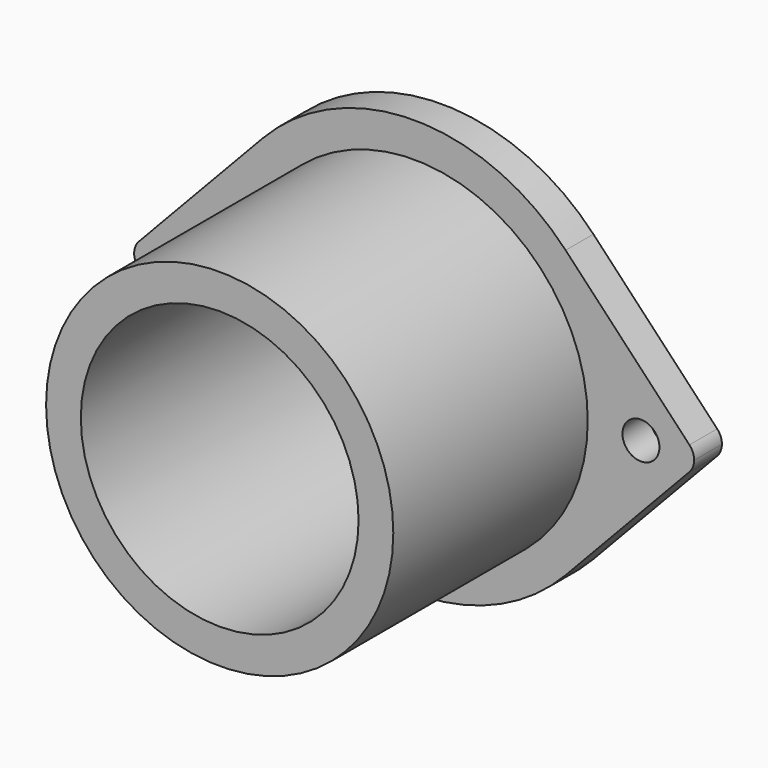
from build123d import *

# Parameters (mm, degrees)
F1_DEPTH = 6.35
F2_R     = 31.75
F2_R_2   = 25.4
F3_DEPTH = 50.8
F5_DEPTH = 127
F7_R     = 3.3782
F8_DEPTH = 127


with BuildPart() as f1:
    # F0 (on Front) → F1 (new body)
    with BuildSketch(Plane.XZ):
        with BuildLine():
            ThreePointArc((27.703595981, -26.1557024322), (35.4056281322, -14.0730770112), (38.1, 0))
            ThreePointArc((38.1, 0), (35.4056281322, 14.0730770112), (27.703595981, 26.1557024322))
            ThreePointArc((27.703595981, 26.1557024322), (0, 38.1), (-27.703595981, 26.1557024322))
            ThreePointArc((-27.703595981, 26.1557024322), (-38.1, 0), (-27.703595981, -26.1557024322))
            ThreePointArc((-27.703595981, -26.1557024322), (0, -38.1), (27.703595981, -26.1557024322))
        make_face()
        with BuildLine():
            ThreePointArc((27.703595981, 26.1557024322), (35.4056281322, 14.0730770112), (38.1, 0))
            ThreePointArc((38.1, 0), (35.4056281322, -14.0730770112), (27.703595981, -26.1557024322))
            Line((27.703595981, -26.1557024322), (50.3400329984, -2.1796418694))
            ThreePointArc((50.3400329984, -2.1796418694), (46.8586435824, -2.950469011), (44.8564, 0))
            ThreePointArc((44.8564, 0), (46.8586435824, 2.950469011), (50.3400329984, 2.1796418694))
            Line((50.3400329984, 2.1796418694), (27.703595981, 26.1557024322))
        make_face()
        with BuildLine():
            ThreePointArc((-27.703595981, -26.1557024322), (-38.1, 0), (-27.703595981, 26.1557024322))
            Line((-27.703595981, 26.1557024322), (-50.3400329984, 2.1796418694))
            ThreePointArc((-50.3400329984, 2.1796418694), (-46.8586435824, 2.950469011), (-44.8564, 0))
            ThreePointArc((-44.8564, 0), (-46.8586435824, -2.950469011), (-50.3400329984, -2.1796418694))
            Line((-50.3400329984, -2.1796418694), (-27.703595981, -26.1557024322))
        make_face()
        with BuildLine():
            ThreePointArc((51.2064, 0), (50.981869011, 1.1727564176), (50.3400329984, 2.1796418694))
            ThreePointArc((50.3400329984, 2.1796418694), (46.8586435824, 2.950469011), (44.8564, 0))
            ThreePointArc((44.8564, 0), (46.8586435824, -2.950469011), (50.3400329984, -2.1796418694))
            ThreePointArc((50.3400329984, -2.1796418694), (50.981869011, -1.1727564176), (51.2064, 0))
        make_face()
        with BuildLine():
            ThreePointArc((-44.8564, 0), (-46.8586435824, 2.950469011), (-50.3400329984, 2.1796418694))
            ThreePointArc((-50.3400329984, 2.1796418694), (-51.2064, 0), (-50.3400329984, -2.1796418694))
            ThreePointArc((-50.3400329984, -2.1796418694), (-46.8586435824, -2.950469011), (-44.8564, 0))
        make_face()
    extrude(amount=F1_DEPTH)

    # F2 (on Front) → F3 (join)
    with BuildSketch(Plane.XZ):
        Circle(F2_R)
        Circle(F2_R_2, mode=Mode.SUBTRACT)
    extrude(amount=F3_DEPTH)

    # F5 (cut): a face of the model
    f5_faces = [f1.faces().sort_by_distance(p)[0] for p in [
        (0, -6.35, 0),
    ]]
    extrude(f5_faces, amount=-F5_DEPTH, mode=Mode.SUBTRACT)

    # F7 (on offset) → F8 (cut)
    with BuildSketch(Plane.XZ.offset(127)):
        with Locations((-41.4782, 0)):
            Circle(F7_R)
        with Locations((41.4782, 0)):
            Circle(F7_R)
    extrude(amount=-F8_DEPTH, mode=Mode.SUBTRACT)


solid = f1.part
